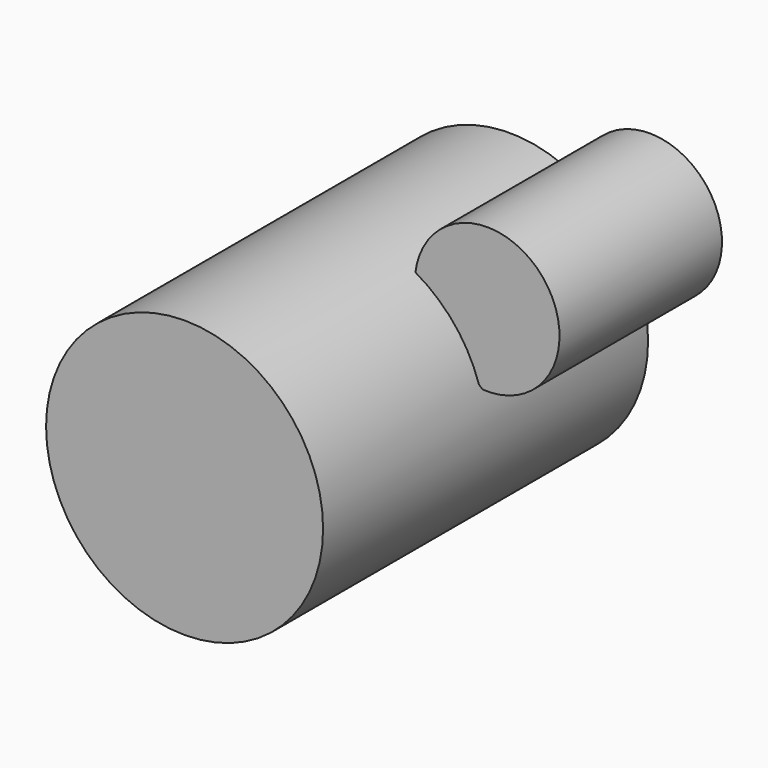
from build123d import *

# Parameters (mm, degrees)
F0_R      = 34.6399806849
F1_DEPTH  = 50.8
F2_DEPTH  = 50.8
F4_DEPTH  = 25.4
F5_DEPTH  = 50.8
F6_DEPTH  = 25.4
F7_R      = 26.5192629278
F8_DEPTH  = 25.4
F9_R      = 25.3977072723
F10_DEPTH = 25.4


with BuildPart() as f1:
    # F0 (on Front) → F1 (new body)
    with BuildSketch(Plane.XZ):
        Circle(F0_R)
    extrude(amount=F1_DEPTH)

    # F2 (add): a face of the model
    f2_faces = [f1.faces().sort_by_distance(p)[0] for p in [
        (0, -50.8, 0),
    ]]
    extrude(f2_faces, amount=F2_DEPTH)

    # F3 (on Front) → F4 (join)
    with BuildSketch(Plane.XZ):
        with BuildLine():
            Line((17.0650705695, 25.7374811918), (33.8503867388, 9.7914338112))
            ThreePointArc((33.8503867388, 9.7914338112), (47.4968674715, 40.9635553292), (17.0650705695, 25.7374811918))
        make_face()
    extrude(amount=F4_DEPTH)

    # F5 (add): a face of the model
    f5_faces = [f1.faces().sort_by_distance(p)[0] for p in [
        (7.0012928433, 0, 5.5654888529),
    ]]
    extrude(f5_faces, amount=-F5_DEPTH)

    # F6 (add): a face of the model
    f6_faces = [f1.faces().sort_by_distance(p)[0] for p in [
        (7.0012928433, 0, 5.5654888529),
    ]]
    extrude(f6_faces, amount=-F6_DEPTH)

    # F7 (on Front) → F8 (cut)
    with BuildSketch(Plane.XZ):
        Circle(F7_R)
    extrude(amount=-F8_DEPTH, mode=Mode.SUBTRACT)

    # F9 (on Front) → F10 (cut)
    with BuildSketch(Plane.XZ):
        Circle(F9_R)
    extrude(amount=-F10_DEPTH, mode=Mode.SUBTRACT)


solid = f1.part
